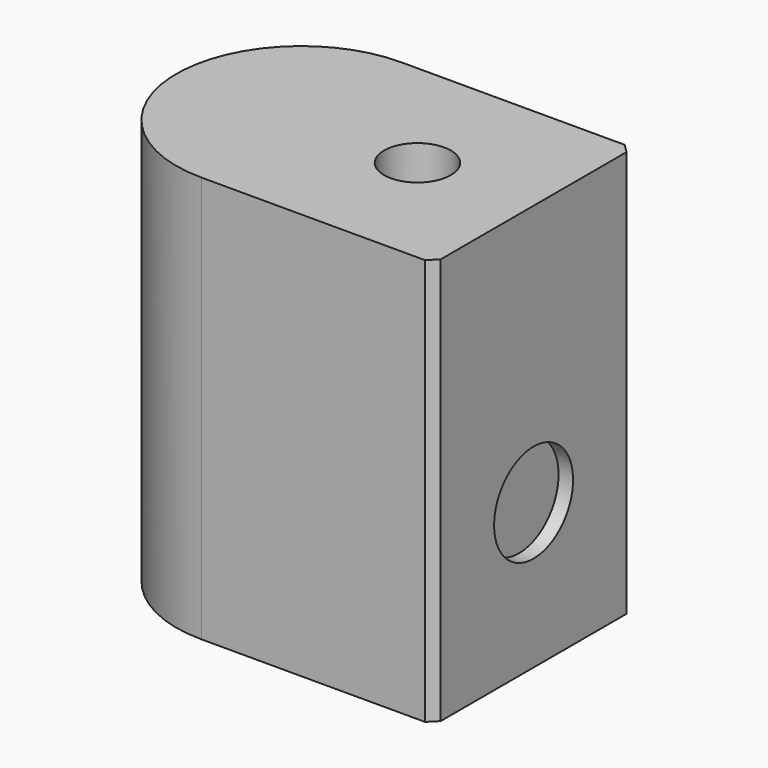
from build123d import *

# Parameters (mm, degrees)
CYLINDER112024025003003006010004028_R     = 1.7
CYLINDER112024025003003006010004028_DEPTH = 14
CYLINDER112024025003003006010004021_R     = 1.15
CYLINDER112024025003003006010004021_DEPTH = 14
CYLINDER112024025003003006010004027_R     = 4.3
CYLINDER112024025003003006010004027_DEPTH = 14
CYLINDER112024025003003006010004043_R     = 1
CYLINDER112024025003003006010004043_DEPTH = 14
BOX021079_W                               = 8
BOX021079_H                               = 8.6
BOX021079_DEPTH                           = 14
CHAMFER008_SIZE                           = 0.3


with BuildPart() as obj1:
    # Cylinder112024025003003006010004028 → Cylinder112024025003003006010004028 (new body)
    with BuildSketch(Plane(origin=(17.5, -24, 11), x_dir=(0, 0, -1), z_dir=(1, 0, 0))):
        Circle(CYLINDER112024025003003006010004028_R)
    extrude(amount=CYLINDER112024025003003006010004028_DEPTH)


with BuildPart() as fusion005043005007002015:
    # Cylinder112024025003003006010004021 → Cylinder112024025003003006010004021 (new body)
    with BuildSketch(Plane(origin=(14, -24, 6), x_dir=(1, 0, 0), z_dir=(0, 0, 1))):
        Circle(CYLINDER112024025003003006010004021_R)
    extrude(amount=CYLINDER112024025003003006010004021_DEPTH)

    # Fusion005043005007002015: union obj1
    add(obj1.part)


with BuildPart() as obj2:
    # Cylinder112024025003003006010004027 → Cylinder112024025003003006010004027 (new body)
    with BuildSketch(Plane(origin=(10, -24, 6), x_dir=(1, 0, 0), z_dir=(0, 0, 1))):
        Circle(CYLINDER112024025003003006010004027_R)
    extrude(amount=CYLINDER112024025003003006010004027_DEPTH)


with BuildPart() as obj3:
    # Cylinder112024025003003006010004043 → Cylinder112024025003003006010004043 (new body)
    with BuildSketch(Plane(origin=(11, -24, 4), x_dir=(1, 0, 0), z_dir=(0, 0, 1))):
        Circle(CYLINDER112024025003003006010004043_R)
    extrude(amount=CYLINDER112024025003003006010004043_DEPTH)


with BuildPart() as tensioner:
    # Box021079 → Box021079 (new body)
    with BuildSketch(Plane(origin=(10, -28.3, 6), x_dir=(1, 0, 0), z_dir=(0, 0, 1))):
        with Locations((4, 4.3)):
            Rectangle(BOX021079_W, BOX021079_H)
    extrude(amount=BOX021079_DEPTH)

    # Fusion005043005007002014: union obj2, obj3
    add(obj2.part)
    add(obj3.part)

    # Cut018020020009027020002003004004013: cut Fusion005043005007002015
    add(fusion005043005007002015.part, mode=Mode.SUBTRACT)

    # Chamfer008
    chamfer008_edges = [tensioner.edges().sort_by_distance(p)[0] for p in [
        (18, -28.3, 13),
        (18, -19.7, 13),
    ]]
    chamfer(chamfer008_edges, length=CHAMFER008_SIZE)


solid = tensioner.part
